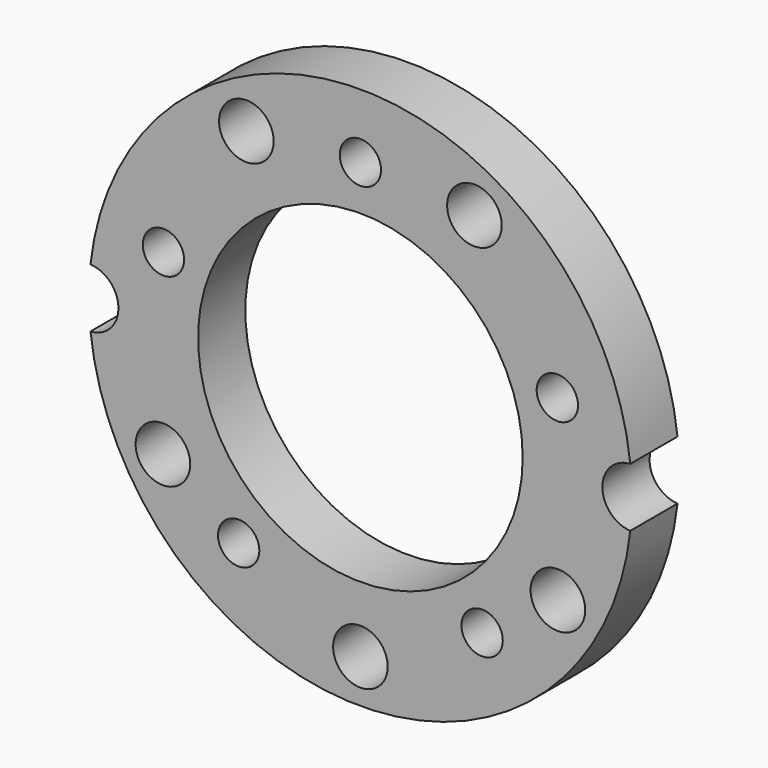
from build123d import *

# Parameters (mm, degrees)
F0_R     = 18.4
F0_R_2   = 1.4
F0_R_3   = 11
F1_DEPTH = 4
F2_R     = 1.85
F3_DEPTH = 25
F5_DEPTH = 25


with BuildPart() as f1:
    # F0 (on Front) → F1 (new body)
    with BuildSketch(Plane.XZ):
        Circle(F0_R)
        with Locations((-8.25, -11.3551508439)):
            Circle(F0_R_2, mode=Mode.SUBTRACT)
        with Locations((8.25, -11.3551508439)):
            Circle(F0_R_2, mode=Mode.SUBTRACT)
        with Locations((-13.3487804072, 4.337281675)):
            Circle(F0_R_2, mode=Mode.SUBTRACT)
        Circle(F0_R_3, mode=Mode.SUBTRACT)
        with Locations((13.3487804072, 4.337281675)):
            Circle(F0_R_2, mode=Mode.SUBTRACT)
        with Locations((0, 14.0357383378)):
            Circle(F0_R_2, mode=Mode.SUBTRACT)
    extrude(amount=-F1_DEPTH)

    # F2 (on face) → F3 (cut)
    with BuildSketch(Plane(origin=(0, 4, 0), x_dir=(-1, 0, 0), z_dir=(0, 1, 0))):
        with Locations((0, -15.4548132206)):
            Circle(F2_R)
        with Locations((13.3842608598, -7.7274066103)):
            Circle(F2_R)
        with Locations((-13.3842608598, -7.7274066103)):
            Circle(F2_R)
        with Locations((-7.7274066103, 13.3842608598)):
            Circle(F2_R)
        with Locations((7.7274066103, 13.3842608598)):
            Circle(F2_R)
    extrude(amount=-F3_DEPTH, mode=Mode.SUBTRACT)

    # F4 (on face) → F5 (cut)
    with BuildSketch(Plane.XZ):
        with BuildLine():
            ThreePointArc((-18.2913043478, -1.9970441295), (-16.9478651398, -1.3752470134), (-16.4, 0))
            ThreePointArc((-16.4, 0), (-16.9478651398, 1.3752470134), (-18.2913043478, 1.9970441295))
            ThreePointArc((-18.2913043478, 1.9970441295), (-18.4, 0), (-18.2913043478, -1.9970441295))
        make_face()
        with BuildLine():
            ThreePointArc((18.4, 0), (18.3728059915, 1), (18.2913043478, 1.9970441295))
            ThreePointArc((18.2913043478, 1.9970441295), (16.4, 0), (18.2913043478, -1.9970441295))
            ThreePointArc((18.2913043478, -1.9970441295), (18.3728059915, -1), (18.4, 0))
        make_face()
    extrude(amount=-F5_DEPTH, mode=Mode.SUBTRACT)


solid = f1.part
